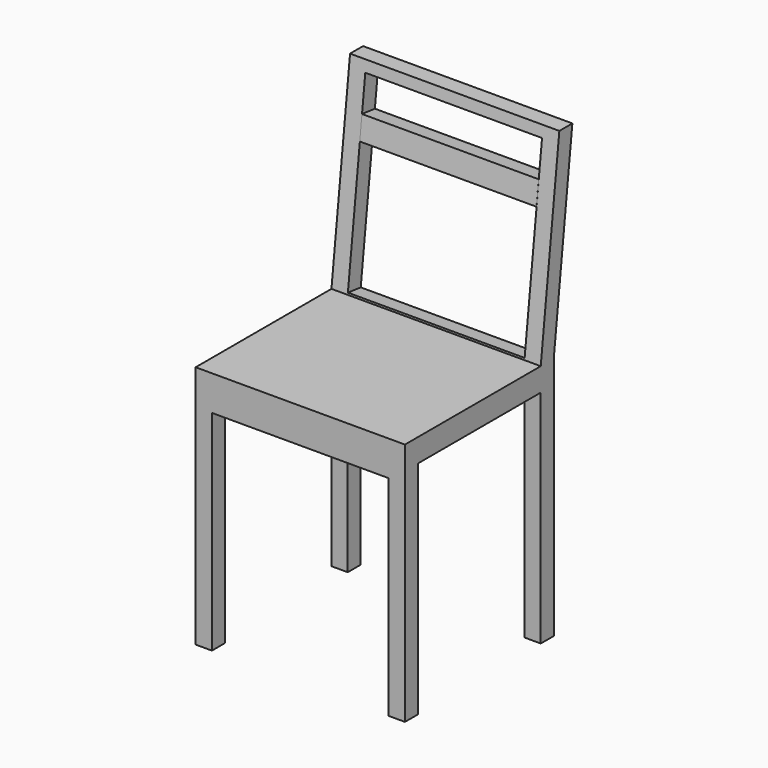
from build123d import *

# Parameters (mm, degrees)
F0_W      = 450
F0_H      = 450
F1_DEPTH  = 950
F2_W      = 50
F2_H      = 50
F2_W_2    = 330
F2_H_2    = 475
F3_DEPTH  = 450.001
F4_W      = 380
F4_H      = 450
F5_DEPTH  = 400.001
F6_W      = 380
F6_H      = 400
F7_DEPTH  = 446.9187719453
F8_W      = 380
F8_H      = 50
F9_DEPTH  = 35
F10_DEPTH = 25


with BuildPart() as f1:
    # F0 (on Top) → F1 (new body)
    with BuildSketch(Plane.XY):
        Rectangle(F0_W, F0_H)
    extrude(amount=F1_DEPTH)

    # F2 (on face) → F3 (cut, through all)
    with BuildSketch(Plane.YZ.offset(225)):
        with Locations((200, 500)):
            Rectangle(F2_W, F2_H)
        Polygon((-225, 950), (-225, 525), (-190, 525), (140, 525), (190, 950), align=None)
        with Locations((-25, 237.5)):
            Rectangle(F2_W_2, F2_H_2)
        with Locations((200, 237.5)):
            Rectangle(F2_W, F2_H_2)
        Polygon((225, 950), (175, 525), (225, 525), align=None)
    extrude(amount=-F3_DEPTH, mode=Mode.SUBTRACT)

    # F4 (on face) → F5 (cut, through all)
    with BuildSketch(Plane(origin=(0, 175, 0), x_dir=(-1, 0, 0), z_dir=(0, 1, 0))):
        with Locations((0, 225)):
            Rectangle(F4_W, F4_H)
    extrude(amount=-F5_DEPTH, mode=Mode.SUBTRACT)

    # F6 (on face) → F7 (cut, through all)
    with BuildSketch(Plane(origin=(0, 111.6894197952, -13.1399317406), x_dir=(-1, 0, 0), z_dir=(0, 0.9931506043, -0.1168412476))):
        with Locations((0, 741.8512855938)):
            Rectangle(F6_W, F6_H)
    extrude(amount=-F7_DEPTH, mode=Mode.SUBTRACT)


with BuildPart() as f9:
    # F8 (on face) → F9 (new body)
    with BuildSketch(Plane(origin=(0, 111.6894197952, -13.1399317406), x_dir=(-1, 0, 0), z_dir=(0, 0.9931506043, -0.1168412476))):
        with Locations((0, 841.8512855938)):
            Rectangle(F8_W, F8_H)
    extrude(amount=-F9_DEPTH)

    # F10 (add): a face of the model
    f10_faces = [f9.faces().sort_by_distance(p)[0] for p in [
        (0, 175.2921031189, 827.0346249617),
    ]]
    extrude(f10_faces, amount=-F10_DEPTH)


solid = Compound([f1.part, f9.part])
